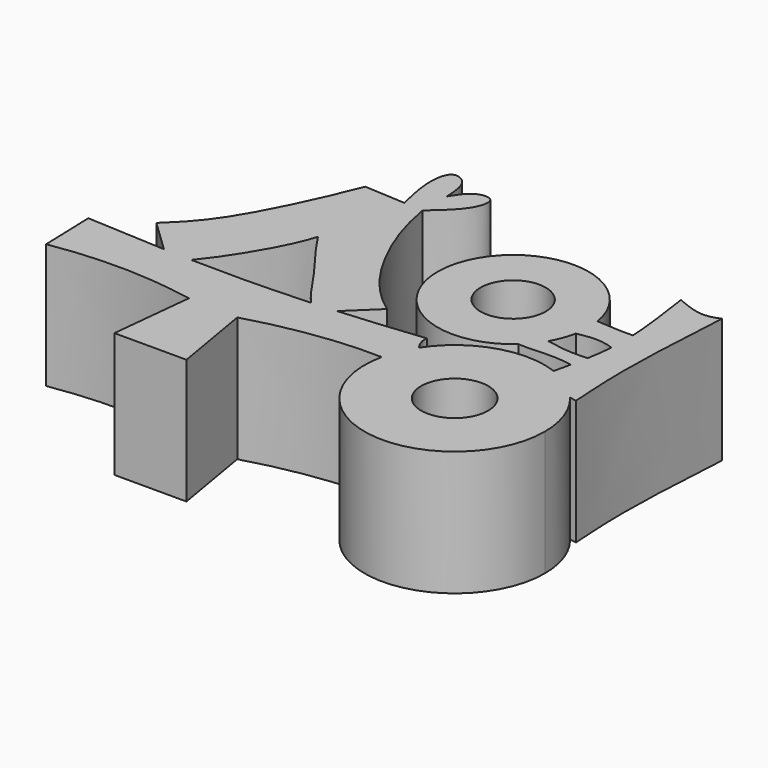
from build123d import *

# Parameters (mm, degrees)
F0_R     = 4.638201324
F0_R_2   = 4.768433274
F1_DEPTH = 17.78


with BuildPart() as f1:
    # F0 (on Top) → F1 (new body)
    with BuildSketch(Plane.XY):
        with BuildLine():
            Line((-35.690382123, -10.0226411596), (-37.9054210512, -7.9028624289))
            add(Edge.make_bspline(
                [(-49.1353943944, -7.3336390778), (-45.393796035, -7.5559354852), (-41.6535417498, -7.7618397531), (-37.9054210512, -7.9028624289)],
                knots=[0, 0, 0, 0, 0.2370343759, 0.2370343759, 0.2370343759, 0.2370343759], degree=3))
            add(Edge.make_bspline(
                [(-49.1353943944, -7.3336390778), (-49.0539086362, -9.9411560223), (-48.9724228779, -12.5486729667), (-48.8909371197, -15.1561899111)],
                knots=[0, 0, 0, 0, 7.8263695861, 7.8263695861, 7.8263695861, 7.8263695861], degree=3))
            add(Edge.make_bspline(
                [(-48.8909371197, -15.1561899111), (-41.3128435612, -13.9339165762), (-34.9570214748, -14.1783701256), (-28.3567421138, -15.4006434605)],
                knots=[0, 0, 0, 0, 20.5356500281, 20.5356500281, 20.5356500281, 20.5356500281], degree=3))
            add(Edge.make_bspline(
                [(-29.5790154487, -27.1344725043), (-29.1715910037, -23.2231961563), (-28.7641665588, -19.3119198084), (-28.3567421138, -15.4006434605)],
                knots=[0, 0, 0, 0, 11.7973173279, 11.7973173279, 11.7973173279, 11.7973173279], degree=3))
            add(Edge.make_bspline(
                [(-19.3119179457, -27.1344725043), (-22.7342837801, -27.1344725043), (-26.1566496144, -27.1344725043), (-29.5790154487, -27.1344725043)],
                knots=[0, 0, 0, 0, 10.2670975029, 10.2670975029, 10.2670975029, 10.2670975029], degree=3))
            add(Edge.make_bspline(
                [(-21.267555654, -15.6450998038), (-20.6156764179, -19.474890704), (-19.9637971818, -23.3046816041), (-19.3119179457, -27.1344725043)],
                knots=[0, 0, 0, 0, 11.6546215681, 11.6546215681, 11.6546215681, 11.6546215681], degree=3))
            add(Edge.make_bspline(
                [(-2.7650330181, -13.0668785919), (-8.5340574192, -12.8617801096), (-15.2554069707, -13.8637216306), (-21.267555654, -15.6450998038)],
                knots=[1.8105537506, 1.8105537506, 1.8105537506, 1.8105537506, 20.3189452298, 20.3189452298, 20.3189452298, 20.3189452298], degree=3))
            ThreePointArc((-2.7650330181, -13.0668785919), (-2.0563968643, -10.8035826328), (-0.9435463791, -8.7092479903))
            add(Edge.make_bspline(
                [(-1.6231150366, -6.3969809562), (-1.8030889288, -7.2967995468), (-1.3953773544, -8.0411328403), (-0.9435463791, -8.7092479903)],
                knots=[0, 0, 0, 0, 0.2771530707, 0.2771530707, 0.2771530707, 0.2771530707], degree=3))
            add(Edge.make_bspline(
                [(-13.5555072823, -7.5210221014), (-9.5350379246, -7.2288478921), (-5.5414650595, -6.8409241797), (-1.6231150366, -6.3969809562)],
                knots=[0.7472805778, 0.7472805778, 0.7472805778, 0.7472805778, 1, 1, 1, 1], degree=3))
            Line((-13.5555072823, -7.5210221014), (-15.4006425291, -9.2892767861))
            add(Edge.make_bspline(
                [(-17.0783166, -7.7512084016), (-16.5569761885, -8.325515744), (-16.003912907, -8.846409664), (-15.4006425291, -9.2892767861)],
                knots=[0.8641525735, 0.8641525735, 0.8641525735, 0.8641525735, 1, 1, 1, 1], degree=3))
            add(Edge.make_bspline(
                [(-33.9211031494, -8.0260959373), (-31.0961036625, -8.0930586948), (-25.4976173365, -8.1336326117), (-19.8591672797, -7.9118738805), (-17.0783166, -7.7512084016)],
                knots=[0.320953967, 0.320953967, 0.320953967, 0.320953967, 0.499289411, 0.6735867607, 0.6735867607, 0.6735867607, 0.6735867607], degree=3))
            add(Edge.make_bspline(
                [(-35.690382123, -10.0226411596), (-35.0805947329, -9.3907110584), (-34.4893601895, -8.7194097618), (-33.9211031657, -8.0260959105)],
                knots=[0, 0, 0, 0, 0.1195210098, 0.1195210098, 0.1195210098, 0.1195210098], degree=3))
        make_face()
        with BuildLine():
            Line((-15.4006425291, -9.2892767861), (-13.5555072823, -7.5210221014))
            add(Edge.make_bspline(
                [(-17.0783166, -7.7512084016), (-15.9025586107, -7.6832782096), (-14.7278894087, -7.6062210645), (-13.5555072823, -7.5210221014)],
                knots=[0.6735867607, 0.6735867607, 0.6735867607, 0.6735867607, 0.7472805778, 0.7472805778, 0.7472805778, 0.7472805778], degree=3))
            add(Edge.make_bspline(
                [(-17.0783166, -7.7512084016), (-16.5569761885, -8.325515744), (-16.003912907, -8.846409664), (-15.4006425291, -9.2892767861)],
                knots=[0.8641525735, 0.8641525735, 0.8641525735, 0.8641525735, 1, 1, 1, 1], degree=3))
        make_face()
        with BuildLine():
            add(Edge.make_bspline(
                [(-37.9054210512, -7.9028624289), (-36.5784373368, -7.9527900617), (-35.2504676135, -7.9945851669), (-33.9211031494, -8.0260959373)],
                knots=[0.2370343759, 0.2370343759, 0.2370343759, 0.2370343759, 0.320953967, 0.320953967, 0.320953967, 0.320953967], degree=3))
            Line((-37.9054210512, -7.9028624289), (-35.690382123, -10.0226411596))
            add(Edge.make_bspline(
                [(-35.690382123, -10.0226411596), (-35.0805947329, -9.3907110584), (-34.4893601895, -8.7194097618), (-33.9211031657, -8.0260959105)],
                knots=[0, 0, 0, 0, 0.1195210098, 0.1195210098, 0.1195210098, 0.1195210098], degree=3))
        make_face()
        with BuildLine():
            Line((-24.0164042954, 17.5133645994), (-29.8234708607, 17.8451966494))
            add(Edge.make_bspline(
                [(-42.5184816122, -3.4881916363), (-40.4406152666, -1.5325543936), (-36.729273016, 2.3855655582), (-32.1297128798, 12.0471876965), (-29.8234708607, 17.8451966494)],
                knots=[0, 0, 0, 0, 0.4081963101, 1, 1, 1, 1], degree=3))
            Line((-42.5184816122, -3.4881916363), (-37.9054210512, -7.9028624289))
            add(Edge.make_bspline(
                [(-37.9054210512, -7.9028624289), (-36.5784373368, -7.9527900617), (-35.2504676135, -7.9945851669), (-33.9211031494, -8.0260959373)],
                knots=[0.2370343759, 0.2370343759, 0.2370343759, 0.2370343759, 0.320953967, 0.320953967, 0.320953967, 0.320953967], degree=3))
            add(Edge.make_bspline(
                [(-33.9211031657, -8.0260959105), (-31.5672329793, -5.1542074231), (-28.082194505, 0.6249600809), (-26.8387619268, 3.6965800844), (-26.4011044055, 5.1335520111)],
                knots=[0.1195210098, 0.1195210098, 0.1195210098, 0.1195210098, 0.6146084964, 1, 1, 1, 1], degree=3))
            add(Edge.make_bspline(
                [(-26.4011044055, 5.1335520111), (-24.6495971424, 2.3786851346), (-21.2149243812, -1.7515205069), (-18.4165740511, -6.2769872146), (-17.0783166, -7.7512084016)],
                knots=[0, 0, 0, 0, 0.5154383232, 0.8641525735, 0.8641525735, 0.8641525735, 0.8641525735], degree=3))
            add(Edge.make_bspline(
                [(-17.0783166, -7.7512084016), (-15.9025586107, -7.6832782096), (-14.7278894087, -7.6062210645), (-13.5555072823, -7.5210221014)],
                knots=[0.6735867607, 0.6735867607, 0.6735867607, 0.6735867607, 0.7472805778, 0.7472805778, 0.7472805778, 0.7472805778], degree=3))
            Line((-13.5555072823, -7.5210221014), (-9.5337294042, -3.6668181419))
            add(Edge.make_bspline(
                [(-21.267555654, 17.356287688), (-20.4427144862, 12.4498118331), (-17.3415208773, 4.6835203337), (-12.9444424563, -1.1756693571), (-9.5337294042, -3.6668181419)],
                knots=[0, 0, 0, 0, 0.5199595505, 1, 1, 1, 1], degree=3))
            Line((-21.267555654, 17.356287688), (-24.0164042954, 17.5133645994))
        make_face()
        with BuildLine():
            ThreePointArc((10.604998152, 8.6600199708), (-10.1405410565, 10.4628466512), (7.1514655816, -1.1394844732))
            ThreePointArc((7.1514655816, -1.1394844732), (8.3383309599, 0.1013219698), (9.3125402076, 1.5152407782))
            ThreePointArc((9.3125402076, 1.5152407782), (10.0736550874, 3.1309986037), (10.5567934998, 4.8504597068))
            ThreePointArc((10.5567934998, 4.8504597068), (10.7029668443, 5.8651384426), (10.7518393927, 6.8891262636))
            ThreePointArc((10.7518393927, 6.8891262636), (10.7150661971, 7.7776118955), (10.604998152, 8.6600199708))
        make_face()
        with Locations((0, 6.8891262636)):
            Circle(F0_R, mode=Mode.SUBTRACT)
        with BuildLine():
            add(Edge.make_bspline(
                [(10.604998152, 8.6600199708), (12.2122220903, 8.5395076784), (14.1003505816, 8.4214401451), (15.5337995939, 8.4505866978), (15.7929722283, 8.4600677202)],
                knots=[0.1510598542, 0.1510598542, 0.1510598542, 0.1510598542, 0.5892870456, 0.6916412836, 0.6916412836, 0.6916412836, 0.6916412836], degree=3))
            ThreePointArc((10.604998152, 8.6600199708), (10.7150661971, 7.7776118955), (10.7518393927, 6.8891262636))
            ThreePointArc((10.7518393927, 6.8891262636), (10.7029668443, 5.8651384426), (10.5567934998, 4.8504597068))
            add(Edge.make_bspline(
                [(10.5567934998, 4.8504597068), (11.6077335714, 5.0731284108), (13.4512603245, 5.3429270555), (15.0687675601, 4.9259274744), (15.7667668859, 4.6856378648)],
                knots=[0.1791229698, 0.1791229698, 0.1791229698, 0.1791229698, 0.5278379059, 0.8050076356, 0.8050076356, 0.8050076356, 0.8050076356], degree=3))
            add(Edge.make_bspline(
                [(15.7929722281, 8.4600677202), (15.8259646398, 7.8000186591), (15.8597235494, 6.4911320302), (15.8097527542, 5.2825685096), (15.766766877, 4.6856378506)],
                knots=[0.3300900765, 0.3300900765, 0.3300900765, 0.3300900765, 0.4014111421, 0.475881609, 0.475881609, 0.475881609, 0.475881609], degree=3))
        make_face()
        with BuildLine():
            add(Edge.make_bspline(
                [(-0.9435463791, -8.7092479903), (-0.4831654467, -9.3900058236), (0.812507327, -10.9299793578), (-1.3591535196, -12.500896209), (-1.1008912697, -13.1621211767)],
                knots=[0.2771530707, 0.2771530707, 0.2771530707, 0.2771530707, 0.5595506841, 1, 1, 1, 1], degree=3))
            ThreePointArc((-0.9435463791, -8.7092479903), (-2.0563968643, -10.8035826328), (-2.7650330181, -13.0668785919))
            add(Edge.make_bspline(
                [(-1.1008912697, -13.1621211767), (-1.6454550718, -13.1185561223), (-2.2006874466, -13.0869420224), (-2.7650330181, -13.0668785919)],
                knots=[0, 0, 0, 0, 1.8105537506, 1.8105537506, 1.8105537506, 1.8105537506], degree=3))
        make_face()
        with BuildLine():
            ThreePointArc((14.2704683408, -3.7238992918), (5.7912004506, -3.554656622), (-0.9435463791, -8.7092479903))
            add(Edge.make_bspline(
                [(-0.9435463791, -8.7092479903), (-0.4831654467, -9.3900058236), (0.812507327, -10.9299793578), (-1.3591535196, -12.500896209), (-1.1008912697, -13.1621211767)],
                knots=[0.2771530707, 0.2771530707, 0.2771530707, 0.2771530707, 0.5595506841, 1, 1, 1, 1], degree=3))
            add(Edge.make_bspline(
                [(-1.1008912697, -13.1621211767), (-1.6454550718, -13.1185561223), (-2.2006874466, -13.0869420224), (-2.7650330181, -13.0668785919)],
                knots=[0, 0, 0, 0, 1.8105537506, 1.8105537506, 1.8105537506, 1.8105537506], degree=3))
            ThreePointArc((-2.7650330181, -13.0668785919), (8.4374624091, -28.5222208777), (22.6276149154, -15.7549548894))
            ThreePointArc((22.6276149154, -15.7549548894), (21.8759455138, -11.4264718648), (19.7089541791, -7.6048333761))
            add(Edge.make_bspline(
                [(19.7089541791, -7.6048333761), (17.6699139236, -7.2677585051), (15.6308736681, -6.9306836341), (13.5918334126, -6.5936087631)],
                knots=[0.9850731992, 0.9850731992, 0.9850731992, 0.9850731992, 7.1852136564, 7.1852136564, 7.1852136564, 7.1852136564], degree=3))
            add(Edge.make_bspline(
                [(14.2704683408, -3.7238992918), (14.0481607533, -4.6828199189), (13.819997083, -5.638214341), (13.5918334126, -6.5936087631)],
                knots=[0.862431978, 0.862431978, 0.862431978, 0.862431978, 1, 1, 1, 1], degree=3))
        make_face()
        with Locations((9.7890105098, -15.7549548894)):
            Circle(F0_R_2, mode=Mode.SUBTRACT)
        with BuildLine():
            ThreePointArc((19.7089541791, -7.6048333761), (17.2465907899, -5.3043922515), (14.2704683408, -3.7238992918))
            add(Edge.make_bspline(
                [(14.2704683408, -3.7238992918), (14.0481607533, -4.6828199189), (13.819997083, -5.638214341), (13.5918334126, -6.5936087631)],
                knots=[0.862431978, 0.862431978, 0.862431978, 0.862431978, 1, 1, 1, 1], degree=3))
            add(Edge.make_bspline(
                [(19.7089541791, -7.6048333761), (17.6699139236, -7.2677585051), (15.6308736681, -6.9306836341), (13.5918334126, -6.5936087631)],
                knots=[0.9850731992, 0.9850731992, 0.9850731992, 0.9850731992, 7.1852136564, 7.1852136564, 7.1852136564, 7.1852136564], degree=3))
        make_face()
        with BuildLine():
            add(Edge.make_bspline(
                [(14.8069814342, -1.3342170053), (14.6343654147, -2.1345241136), (14.4544217387, -2.9304189177), (14.2704683408, -3.7238992918)],
                knots=[0.7485982336, 0.7485982336, 0.7485982336, 0.7485982336, 0.862431978, 0.862431978, 0.862431978, 0.862431978], degree=3))
            ThreePointArc((14.2704683408, -3.7238992918), (17.2465907899, -5.3043922515), (19.7089541791, -7.6048333761))
            add(Edge.make_bspline(
                [(20.6805605656, -7.7654501645), (20.3566917701, -7.7119112351), (20.0328229746, -7.6583723056), (19.7089541791, -7.6048333761)],
                knots=[0.0002804682, 0.0002804682, 0.0002804682, 0.0002804682, 0.9850731992, 0.9850731992, 0.9850731992, 0.9850731992], degree=3))
            add(Edge.make_bspline(
                [(21.0246238858, 17.7790299058), (20.6250946927, 11.2667740848), (19.9812190211, 0.7717134879), (20.6821235466, -7.3379998329), (20.6814771583, -7.7354147295), (20.6805605822, -7.7654501629)],
                knots=[0, 0, 0, 0, 0.5854026775, 0.9434267853, 0.982045861, 0.982045861, 0.982045861, 0.982045861], degree=3))
            add(Edge.make_bspline(
                [(14.6289672703, 18.4704512358), (16.0331969379, 17.8900841317), (18.5210907303, 16.8618394301), (20.265014458, 17.5007405886), (21.0246238858, 17.7790299058)],
                knots=[0, 0, 0, 0, 0.5644250859, 1, 1, 1, 1], degree=3))
            add(Edge.make_bspline(
                [(14.6289672703, 18.4704512358), (15.134621565, 14.9926878976), (15.6402758597, 11.5149245593), (15.7929722281, 8.4600677202)],
                knots=[0, 0, 0, 0, 0.3300900765, 0.3300900765, 0.3300900765, 0.3300900765], degree=3))
            add(Edge.make_bspline(
                [(15.7929722281, 8.4600677202), (15.8259646398, 7.8000186591), (15.8597235494, 6.4911320302), (15.8097527542, 5.2825685096), (15.766766877, 4.6856378506)],
                knots=[0.3300900765, 0.3300900765, 0.3300900765, 0.3300900765, 0.4014111421, 0.475881609, 0.475881609, 0.475881609, 0.475881609], degree=3))
            add(Edge.make_bspline(
                [(15.766766877, 4.6856378506), (15.6743085756, 3.4017000011), (15.5010704409, 2.2121624994), (15.2906951215, 1.0595967053)],
                knots=[0.475881609, 0.475881609, 0.475881609, 0.475881609, 0.6360600981, 0.6360600981, 0.6360600981, 0.6360600981], degree=3))
            add(Edge.make_bspline(
                [(15.2906951215, 1.0595967053), (15.1920245831, 0.5190186192), (15.0319815527, -0.2785674737), (14.8637109723, -1.0711993969), (14.8069814342, -1.3342170053)],
                knots=[0.6360600981, 0.6360600981, 0.6360600981, 0.6360600981, 0.7111872462, 0.7485982336, 0.7485982336, 0.7485982336, 0.7485982336], degree=3))
        make_face()
        with BuildLine():
            add(Edge.make_bspline(
                [(7.1514655816, -1.1394844732), (8.7499595944, -1.2802845456), (11.2636613372, -0.8875201197), (13.8928422624, -1.1887215989), (14.8069814342, -1.3342170053)],
                knots=[0, 0, 0, 0, 0.4956008854, 0.7694205432, 0.7694205432, 0.7694205432, 0.7694205432], degree=3))
            add(Edge.make_bspline(
                [(15.2906951215, 1.0595967053), (15.1920245831, 0.5190186192), (15.0319815527, -0.2785674737), (14.8637109723, -1.0711993969), (14.8069814342, -1.3342170053)],
                knots=[0.6360600981, 0.6360600981, 0.6360600981, 0.6360600981, 0.7111872462, 0.7485982336, 0.7485982336, 0.7485982336, 0.7485982336], degree=3))
            add(Edge.make_bspline(
                [(9.3125402076, 1.5152407782), (10.4624087708, 1.281373109), (12.4919261066, 0.9184224008), (14.4446622318, 0.995868069), (15.2906951195, 1.0595967062)],
                knots=[0.106445154, 0.106445154, 0.106445154, 0.106445154, 0.5118822744, 0.8252169792, 0.8252169792, 0.8252169792, 0.8252169792], degree=3))
            ThreePointArc((9.3125402076, 1.5152407782), (8.3383309599, 0.1013219698), (7.1514655816, -1.1394844732))
        make_face()
        with BuildLine():
            add(Edge.make_bspline(
                [(-24.0164042954, 17.5133645994), (-24.4885457329, 19.5307599279), (-25.2942491008, 22.9734194385), (-24.4531740639, 26.8912323127), (-21.4906827533, 25.5982225664), (-21.3494508123, 23.1289222724), (-21.267555654, 21.6970667243)],
                knots=[0, 0, 0, 0, 0.3231709152, 0.5514870631, 0.7399240025, 1, 1, 1, 1], degree=3))
            Line((-24.0164042954, 17.5133645994), (-21.267555654, 17.356287688))
            add(Edge.make_bspline(
                [(-21.267555654, 21.6970667243), (-20.6525906878, 22.6822724684), (-19.5473692987, 24.4528944076), (-16.4737011929, 24.6074750909), (-16.9738421891, 21.0966583386), (-19.6430357601, 18.7714511781), (-21.267555654, 17.356287688)],
                knots=[0, 0, 0, 0, 0.2490762174, 0.4476423506, 0.6638250595, 1, 1, 1, 1], degree=3))
        make_face()
    extrude(amount=F1_DEPTH)


solid = f1.part
